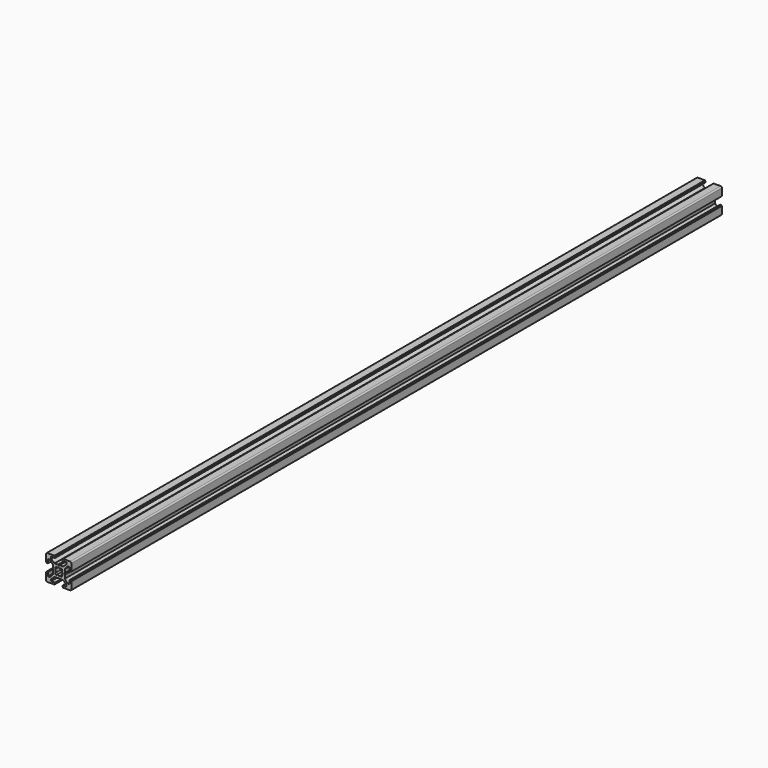
from build123d import *

# Parameters (mm, degrees)
PAD_DEPTH          = 640
POCKET_DEPTH       = 640
POLARPATTERN_COUNT = 4
POCKET001_DEPTH    = 640


with BuildPart() as part:
    # Sketch → Pad (new body)
    with BuildSketch(Plane.XZ):
        with BuildLine():
            Line((-9, 10), (9, 10))
            ThreePointArc((10, 9), (9.707107, 9.707107), (9, 10))
            Line((10, 9), (10, -9))
            ThreePointArc((9, -10), (9.707107, -9.707107), (10, -9))
            Line((9, -10), (-9, -10))
            ThreePointArc((-10, -9), (-9.707107, -9.707107), (-9, -10))
            Line((-10, -9), (-10, 9))
            ThreePointArc((-9, 10), (-9.707107, 9.707107), (-10, 9))
        make_face()
    extrude(amount=PAD_DEPTH)

    # Sketch001 (on Face10 of Pad) → Pocket (cut)
    with BuildSketch(Plane.XZ.offset(640)):
        Polygon((-3.4, 10), (-3.4, 9.6), (-3, 9.6), (-3, 8.5), (-6, 8.5), (-6, 7), (-3.35, 4.7), (-0.65, 4.7), (0, 4.3), (0.65, 4.7), (3.35, 4.7), (6, 7), (6, 8.5), (3, 8.5), (3, 9.6), (3.4, 9.6), (3.4, 10), align=None)
    pocket = extrude(amount=-POCKET_DEPTH, mode=Mode.SUBTRACT)

    # PolarPattern: Pocket ×4 about axis
    polarpattern_axis = Axis((0, -640, 0), (0, -1, 0))
    for i in range(1, POLARPATTERN_COUNT):
        add(pocket.rotate(polarpattern_axis, i * 360 / POLARPATTERN_COUNT), mode=Mode.SUBTRACT)

    # Sketch002 (on Face4 of PolarPattern) → Pocket001 (cut)
    with BuildSketch(Plane.XZ.offset(640)):
        with BuildLine():
            ThreePointArc((1.340499, 2.401159), (0, 2.75), (-1.340499, 2.401159))
            Line((-1.944544, 3.005204), (-1.340499, 2.401159))
            Line((-3.005204, 1.944544), (-1.944544, 3.005204))
            Line((-2.401159, 1.340499), (-3.005204, 1.944544))
            ThreePointArc((-2.401159, 1.340499), (-2.75, 0), (-2.401159, -1.340499))
            Line((-3.005204, -1.944544), (-2.401159, -1.340499))
            Line((-1.944544, -3.005204), (-3.005204, -1.944544))
            Line((-1.340499, -2.401159), (-1.944544, -3.005204))
            ThreePointArc((-1.340499, -2.401159), (0, -2.75), (1.340499, -2.401159))
            Line((1.944544, -3.005204), (1.340499, -2.401159))
            Line((3.005204, -1.944544), (1.944544, -3.005204))
            Line((2.401159, -1.340499), (3.005204, -1.944544))
            ThreePointArc((2.401159, -1.340499), (2.75, 0), (2.401159, 1.340499))
            Line((2.401159, 1.340499), (3.005204, 1.944544))
            Line((3.005204, 1.944544), (1.944544, 3.005204))
            Line((1.944544, 3.005204), (1.340499, 2.401159))
        make_face()
    extrude(amount=-POCKET001_DEPTH, mode=Mode.SUBTRACT)


solid = part.part
